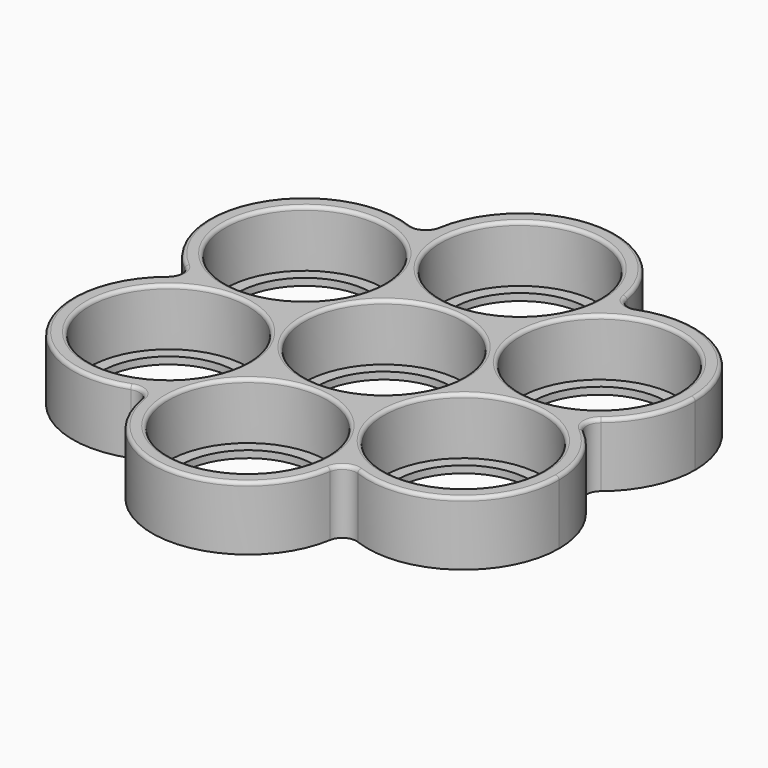
from build123d import *

# Parameters (mm, degrees)
F0_R     = 9.5
F1_DEPTH = 9
F2_R     = 11.2
F3_DEPTH = 8
F4_R     = 2
F5_R     = 0.5


with BuildPart() as f1:
    # F0 (on Top) → F1 (new body)
    with BuildSketch(Plane.XY):
        with BuildLine():
            ThreePointArc((7.2846831147, 11.9554753949), (12.124355653, 7), (13.9960869637, 0.3309829384))
            ThreePointArc((13.9960869637, 0.3309829384), (14.2959083712, 0.1616405197), (14.5999512524, 0))
            ThreePointArc((14.5999512524, 0), (20.7846096908, 1.5), (26.9692681293, 0))
            ThreePointArc((26.9692681293, 0), (32.3115973485, 4.9730123424), (34.2846096908, 12))
            ThreePointArc((34.2846096908, 12), (27.2537800026, 23.8490436524), (13.4846340646, 23.3560713214))
            ThreePointArc((13.4846340646, 23.3560713214), (11.6913429511, 17.25), (7.2999756262, 12.6439286786))
            ThreePointArc((7.2999756262, 12.6439286786), (7.2879389819, 12.2997995598), (7.2846831147, 11.9554753949))
        make_face()
        with Locations((20.7846096908, 12)):
            Circle(F0_R, mode=Mode.SUBTRACT)
        with BuildLine():
            ThreePointArc((14.5999512524, 0), (14.2959083712, -0.1616405197), (13.9960869637, -0.3309829384))
            ThreePointArc((13.9960869637, -0.3309829384), (12.124355653, -7), (7.2846831147, -11.9554753949))
            ThreePointArc((7.2846831147, -11.9554753949), (7.2879389819, -12.2997995598), (7.2999756262, -12.6439286786))
            ThreePointArc((7.2999756262, -12.6439286786), (11.6913429511, -17.25), (13.4846340646, -23.3560713214))
            ThreePointArc((13.4846340646, -23.3560713214), (27.2537800026, -23.8490436524), (34.2846096908, -12))
            ThreePointArc((34.2846096908, -12), (32.3115973485, -4.9730123424), (26.9692681293, 0))
            ThreePointArc((26.9692681293, 0), (20.7846096908, -1.5), (14.5999512524, 0))
        make_face()
        with Locations((20.7846096908, -12)):
            Circle(F0_R, mode=Mode.SUBTRACT)
        with BuildLine():
            ThreePointArc((26.9692681293, 0), (20.7846096908, 1.5), (14.5999512524, 0))
            ThreePointArc((14.5999512524, 0), (20.7846096908, -1.5), (26.9692681293, 0))
        make_face()
        with BuildLine():
            ThreePointArc((-6.7114038489, 12.2864583333), (0, 14), (6.7114038489, 12.2864583333))
            ThreePointArc((6.7114038489, 12.2864583333), (7.0079693893, 12.4614400795), (7.2999756262, 12.6439286786))
            ThreePointArc((7.2999756262, 12.6439286786), (9.0932667397, 18.75), (13.4846340646, 23.3560713214))
            ThreePointArc((13.4846340646, 23.3560713214), (13.4961579694, 23.6779440052), (13.5, 24))
            ThreePointArc((13.5, 24), (-0.3220559948, 37.4961579694), (-13.4846340646, 23.3560713214))
            ThreePointArc((-13.4846340646, 23.3560713214), (-9.0932667397, 18.75), (-7.2999756262, 12.6439286786))
            ThreePointArc((-7.2999756262, 12.6439286786), (-7.0079693893, 12.4614400795), (-6.7114038489, 12.2864583333))
        make_face()
        with Locations((0, 24)):
            Circle(F0_R, mode=Mode.SUBTRACT)
        with BuildLine():
            ThreePointArc((13.4846340646, 23.3560713214), (9.0932667397, 18.75), (7.2999756262, 12.6439286786))
            ThreePointArc((7.2999756262, 12.6439286786), (11.6913429511, 17.25), (13.4846340646, 23.3560713214))
        make_face()
        with BuildLine():
            ThreePointArc((7.2999756262, -12.6439286786), (7.0079693893, -12.4614400795), (6.7114038489, -12.2864583333))
            ThreePointArc((6.7114038489, -12.2864583333), (0, -14), (-6.7114038489, -12.2864583333))
            ThreePointArc((-6.7114038489, -12.2864583333), (-7.0079693893, -12.4614400795), (-7.2999756262, -12.6439286786))
            ThreePointArc((-7.2999756262, -12.6439286786), (-9.0932667397, -18.75), (-13.4846340646, -23.3560713214))
            ThreePointArc((-13.4846340646, -23.3560713214), (-0.3220559948, -37.4961579694), (13.5, -24))
            ThreePointArc((13.5, -24), (13.4961579694, -23.6779440052), (13.4846340646, -23.3560713214))
            ThreePointArc((13.4846340646, -23.3560713214), (9.0932667397, -18.75), (7.2999756262, -12.6439286786))
        make_face()
        with Locations((0, -24)):
            Circle(F0_R, mode=Mode.SUBTRACT)
        with BuildLine():
            ThreePointArc((13.4846340646, -23.3560713214), (11.6913429511, -17.25), (7.2999756262, -12.6439286786))
            ThreePointArc((7.2999756262, -12.6439286786), (9.0932667397, -18.75), (13.4846340646, -23.3560713214))
        make_face()
        with BuildLine():
            ThreePointArc((-13.9960869637, 0.3309829384), (-12.124355653, 7), (-7.2846831147, 11.9554753949))
            ThreePointArc((-7.2846831147, 11.9554753949), (-7.2846280468, 11.9777376672), (-7.2846096908, 12))
            ThreePointArc((-7.2846096908, 12), (-7.2884517214, 12.3220559948), (-7.2999756262, 12.6439286786))
            ThreePointArc((-7.2999756262, 12.6439286786), (-11.6913429511, 17.25), (-13.4846340646, 23.3560713214))
            ThreePointArc((-13.4846340646, 23.3560713214), (-32.4759526419, 18.75), (-26.9692681293, 0))
            ThreePointArc((-26.9692681293, 0), (-20.7846096908, 1.5), (-14.5999512524, 0))
            ThreePointArc((-14.5999512524, 0), (-14.2959083712, 0.1616405197), (-13.9960869637, 0.3309829384))
        make_face()
        with Locations((-20.7846096908, 12)):
            Circle(F0_R, mode=Mode.SUBTRACT)
        with BuildLine():
            ThreePointArc((-13.4846340646, 23.3560713214), (-11.6913429511, 17.25), (-7.2999756262, 12.6439286786))
            ThreePointArc((-7.2999756262, 12.6439286786), (-9.0932667397, 18.75), (-13.4846340646, 23.3560713214))
        make_face()
        with BuildLine():
            ThreePointArc((-7.2846096908, -12), (-7.2846280468, -11.9777376672), (-7.2846831147, -11.9554753949))
            ThreePointArc((-7.2846831147, -11.9554753949), (-12.124355653, -7), (-13.9960869637, -0.3309829384))
            ThreePointArc((-13.9960869637, -0.3309829384), (-14.2959083712, -0.1616405197), (-14.5999512524, 0))
            ThreePointArc((-14.5999512524, 0), (-20.7846096908, -1.5), (-26.9692681293, 0))
            ThreePointArc((-26.9692681293, 0), (-32.4759526419, -18.75), (-13.4846340646, -23.3560713214))
            ThreePointArc((-13.4846340646, -23.3560713214), (-11.6913429511, -17.25), (-7.2999756262, -12.6439286786))
            ThreePointArc((-7.2999756262, -12.6439286786), (-7.2884517214, -12.3220559948), (-7.2846096908, -12))
        make_face()
        with Locations((-20.7846096908, -12)):
            Circle(F0_R, mode=Mode.SUBTRACT)
        with BuildLine():
            ThreePointArc((-13.4846340646, -23.3560713214), (-9.0932667397, -18.75), (-7.2999756262, -12.6439286786))
            ThreePointArc((-7.2999756262, -12.6439286786), (-11.6913429511, -17.25), (-13.4846340646, -23.3560713214))
        make_face()
        with BuildLine():
            ThreePointArc((-26.9692681293, 0), (-20.7846096908, -1.5), (-14.5999512524, 0))
            ThreePointArc((-14.5999512524, 0), (-20.7846096908, 1.5), (-26.9692681293, 0))
        make_face()
        with BuildLine():
            ThreePointArc((13.9960869637, -0.3309829384), (13.9990217067, -0.1655030343), (14, 0))
            ThreePointArc((14, 0), (13.9990217067, 0.1655030343), (13.9960869637, 0.3309829384))
            ThreePointArc((13.9960869637, 0.3309829384), (9.0932667397, 5.25), (7.2846831147, 11.9554753949))
            ThreePointArc((7.2846831147, 11.9554753949), (7, 12.124355653), (6.7114038489, 12.2864583333))
            ThreePointArc((6.7114038489, 12.2864583333), (0, 10.5), (-6.7114038489, 12.2864583333))
            ThreePointArc((-6.7114038489, 12.2864583333), (-7, 12.124355653), (-7.2846831147, 11.9554753949))
            ThreePointArc((-7.2846831147, 11.9554753949), (-9.0932667397, 5.25), (-13.9960869637, 0.3309829384))
            ThreePointArc((-13.9960869637, 0.3309829384), (-14, 0), (-13.9960869637, -0.3309829384))
            ThreePointArc((-13.9960869637, -0.3309829384), (-9.0932667397, -5.25), (-7.2846831147, -11.9554753949))
            ThreePointArc((-7.2846831147, -11.9554753949), (-7, -12.124355653), (-6.7114038489, -12.2864583333))
            ThreePointArc((-6.7114038489, -12.2864583333), (0, -10.5), (6.7114038489, -12.2864583333))
            ThreePointArc((6.7114038489, -12.2864583333), (7, -12.124355653), (7.2846831147, -11.9554753949))
            ThreePointArc((7.2846831147, -11.9554753949), (9.0932667397, -5.25), (13.9960869637, -0.3309829384))
        make_face()
        Circle(F0_R, mode=Mode.SUBTRACT)
        with BuildLine():
            ThreePointArc((-13.9960869637, -0.3309829384), (-12.124355653, -7), (-7.2846831147, -11.9554753949))
            ThreePointArc((-7.2846831147, -11.9554753949), (-9.0932667397, -5.25), (-13.9960869637, -0.3309829384))
        make_face()
        with BuildLine():
            ThreePointArc((-13.9960869637, 0.3309829384), (-9.0932667397, 5.25), (-7.2846831147, 11.9554753949))
            ThreePointArc((-7.2846831147, 11.9554753949), (-12.124355653, 7), (-13.9960869637, 0.3309829384))
        make_face()
        with BuildLine():
            ThreePointArc((-6.7114038489, 12.2864583333), (0, 10.5), (6.7114038489, 12.2864583333))
            ThreePointArc((6.7114038489, 12.2864583333), (0, 14), (-6.7114038489, 12.2864583333))
        make_face()
        with BuildLine():
            ThreePointArc((7.2846831147, 11.9554753949), (9.0932667397, 5.25), (13.9960869637, 0.3309829384))
            ThreePointArc((13.9960869637, 0.3309829384), (12.124355653, 7), (7.2846831147, 11.9554753949))
        make_face()
        with BuildLine():
            ThreePointArc((7.2846831147, -11.9554753949), (12.124355653, -7), (13.9960869637, -0.3309829384))
            ThreePointArc((13.9960869637, -0.3309829384), (9.0932667397, -5.25), (7.2846831147, -11.9554753949))
        make_face()
        with BuildLine():
            ThreePointArc((-6.7114038489, -12.2864583333), (0, -14), (6.7114038489, -12.2864583333))
            ThreePointArc((6.7114038489, -12.2864583333), (0, -10.5), (-6.7114038489, -12.2864583333))
        make_face()
        with BuildLine():
            ThreePointArc((-7.2999756262, -12.6439286786), (-7.0079693893, -12.4614400795), (-6.7114038489, -12.2864583333))
            ThreePointArc((-6.7114038489, -12.2864583333), (-7, -12.124355653), (-7.2846831147, -11.9554753949))
            ThreePointArc((-7.2846831147, -11.9554753949), (-7.2846280468, -11.9777376672), (-7.2846096908, -12))
            ThreePointArc((-7.2846096908, -12), (-7.2884517214, -12.3220559948), (-7.2999756262, -12.6439286786))
        make_face()
        with BuildLine():
            ThreePointArc((7.2999756262, -12.6439286786), (7.2879389819, -12.2997995598), (7.2846831147, -11.9554753949))
            ThreePointArc((7.2846831147, -11.9554753949), (7, -12.124355653), (6.7114038489, -12.2864583333))
            ThreePointArc((6.7114038489, -12.2864583333), (7.0079693893, -12.4614400795), (7.2999756262, -12.6439286786))
        make_face()
        with BuildLine():
            ThreePointArc((13.9960869637, 0.3309829384), (13.9990217067, 0.1655030343), (14, 0))
            ThreePointArc((14, 0), (13.9990217067, -0.1655030343), (13.9960869637, -0.3309829384))
            ThreePointArc((13.9960869637, -0.3309829384), (14.2959083712, -0.1616405197), (14.5999512524, 0))
            ThreePointArc((14.5999512524, 0), (14.2959083712, 0.1616405197), (13.9960869637, 0.3309829384))
        make_face()
        with BuildLine():
            ThreePointArc((6.7114038489, 12.2864583333), (7, 12.124355653), (7.2846831147, 11.9554753949))
            ThreePointArc((7.2846831147, 11.9554753949), (7.2879389819, 12.2997995598), (7.2999756262, 12.6439286786))
            ThreePointArc((7.2999756262, 12.6439286786), (7.0079693893, 12.4614400795), (6.7114038489, 12.2864583333))
        make_face()
        with BuildLine():
            ThreePointArc((-7.2846831147, 11.9554753949), (-7, 12.124355653), (-6.7114038489, 12.2864583333))
            ThreePointArc((-6.7114038489, 12.2864583333), (-7.0079693893, 12.4614400795), (-7.2999756262, 12.6439286786))
            ThreePointArc((-7.2999756262, 12.6439286786), (-7.2884517214, 12.3220559948), (-7.2846096908, 12))
            ThreePointArc((-7.2846096908, 12), (-7.2846280468, 11.9777376672), (-7.2846831147, 11.9554753949))
        make_face()
        with BuildLine():
            ThreePointArc((-13.9960869637, -0.3309829384), (-14, 0), (-13.9960869637, 0.3309829384))
            ThreePointArc((-13.9960869637, 0.3309829384), (-14.2959083712, 0.1616405197), (-14.5999512524, 0))
            ThreePointArc((-14.5999512524, 0), (-14.2959083712, -0.1616405197), (-13.9960869637, -0.3309829384))
        make_face()
    extrude(amount=F1_DEPTH)

    # F2 (on face) → F3 (cut)
    with BuildSketch(Plane.XY.offset(9)):
        Circle(F2_R)
        with Locations((0, 24)):
            Circle(F2_R)
        with Locations((20.7846096908, 12)):
            Circle(F2_R)
        with Locations((20.7846096908, -12)):
            Circle(F2_R)
        with Locations((0, -24)):
            Circle(F2_R)
        with Locations((-20.7846096908, -12)):
            Circle(F2_R)
        with Locations((-20.7846096908, 12)):
            Circle(F2_R)
    extrude(amount=-F3_DEPTH, mode=Mode.SUBTRACT)

    # F4
    f4_edges = [f1.edges().sort_by_distance(p)[0] for p in [
        (-13.484634, -23.356071, 4.5),
        (13.484634, -23.356071, 4.5),
        (26.969268, 0, 4.5),
        (13.484634, 23.356071, 4.5),
        (-13.484634, 23.356071, 4.5),
        (-26.969268, 0, 4.5),
    ]]
    fillet(f4_edges, radius=F4_R)

    # F5
    f5_edges = [f1.edges().sort_by_distance(p)[0] for p in [
        (-32.475953, -18.75, 9),
        (-31.98461, -12, 9),
        (-11.2, 0, 9),
        (-31.98461, 12, 9),
        (-11.2, 24, 9),
        (9.58461, 12, 9),
        (9.58461, -12, 9),
        (-11.2, -24, 9),
    ]]
    fillet(f5_edges, radius=F5_R)


solid = f1.part
